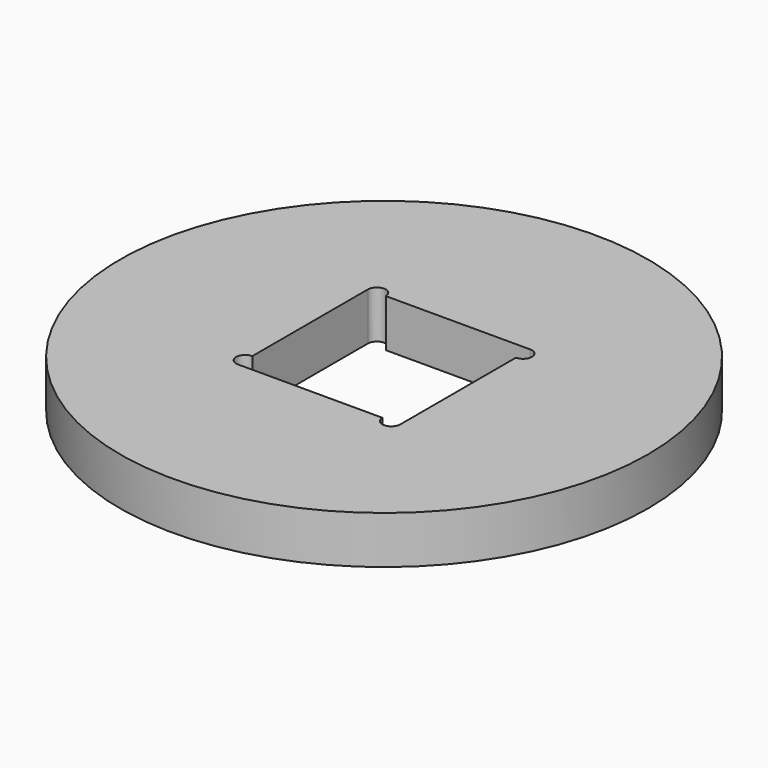
from build123d import *

# Parameters (mm, degrees)
F0_R     = 17.5895
F1_DEPTH = 3.175


with BuildPart() as f1:
    # F0 (on Top) → F1 (new body)
    with BuildSketch(Plane.XY):
        Circle(F0_R)
        with BuildLine():
            Line((-4.2164, 5.4102), (5.4102, 5.4102))
            ThreePointArc((5.4102, 5.4102), (6.0071, 4.8133), (5.4102, 4.2164))
            Line((5.4102, 4.2164), (5.4102, -5.4102))
            ThreePointArc((5.4102, -5.4102), (4.8133, -6.0071), (4.2164, -5.4102))
            Line((4.2164, -5.4102), (-5.4102, -5.4102))
            ThreePointArc((-5.4102, -5.4102), (-6.0071, -4.8133), (-5.4102, -4.2164))
            Line((-5.4102, -4.2164), (-5.4102, 5.4102))
            ThreePointArc((-5.4102, 5.4102), (-4.8133, 6.0071), (-4.2164, 5.4102))
        make_face(mode=Mode.SUBTRACT)
    extrude(amount=F1_DEPTH)


solid = f1.part
